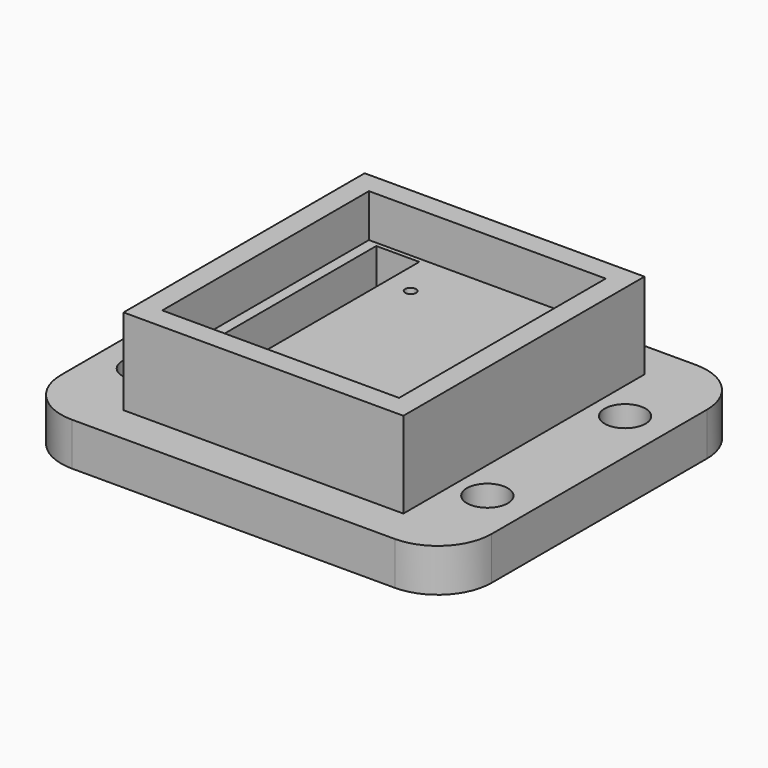
from build123d import *

# Parameters (mm, degrees)
F0_R     = 1.9
F0_W     = 4
F0_H     = 21
F1_DEPTH = 4
F2_W     = 26
F2_H     = 28
F2_W_2   = 22
F2_H_2   = 24
F3_DEPTH = 8
F5_D     = 1
F6_DEPTH = 4


with BuildPart() as f1:
    # F0 (on Top) → F1 (new body)
    with BuildSketch(Plane.XY):
        with BuildLine():
            ThreePointArc((20, 12.5), (18.5355339059, 16.0355339059), (15, 17.5))
            Line((15, 17.5), (-15, 17.5))
            ThreePointArc((-15, 17.5), (-18.5355339059, 16.0355339059), (-20, 12.5))
            Line((-20, 12.5), (-20, -12.5))
            ThreePointArc((-20, -12.5), (-18.5355339059, -16.0355339059), (-15, -17.5))
            Line((-15, -17.5), (15, -17.5))
            ThreePointArc((15, -17.5), (18.5355339059, -16.0355339059), (20, -12.5))
            Line((20, -12.5), (20, 12.5))
        make_face()
        with Locations((-16, -8)):
            Circle(F0_R, mode=Mode.SUBTRACT)
        with Locations((16, -8)):
            Circle(F0_R, mode=Mode.SUBTRACT)
        with Locations((-16, 8)):
            Circle(F0_R, mode=Mode.SUBTRACT)
        with Locations((-8, 1.1)):
            Rectangle(F0_W, F0_H, mode=Mode.SUBTRACT)
        with Locations((16, 8)):
            Circle(F0_R, mode=Mode.SUBTRACT)
    extrude(amount=F1_DEPTH)

    # F2 (on face) → F3 (join)
    with BuildSketch(Plane.XY.offset(4)):
        Rectangle(F2_W, F2_H)
        Rectangle(F2_W_2, F2_H_2, mode=Mode.SUBTRACT)
    extrude(amount=F3_DEPTH)

    # F5 (through all)
    with Locations(Plane.XY.offset(4)):
        with Locations((-3.64, -9.36), (8.36, -9.36), (8.36, 7.64), (-3.64, 7.64)):
            Hole(F5_D / 2)

    # F6 (add): a face of the model
    f6_faces = [f1.faces().sort_by_distance(p)[0] for p in [
        (1.5074813824, -0.2034626738, 4),
    ]]
    extrude(f6_faces, amount=F6_DEPTH)


solid = f1.part
